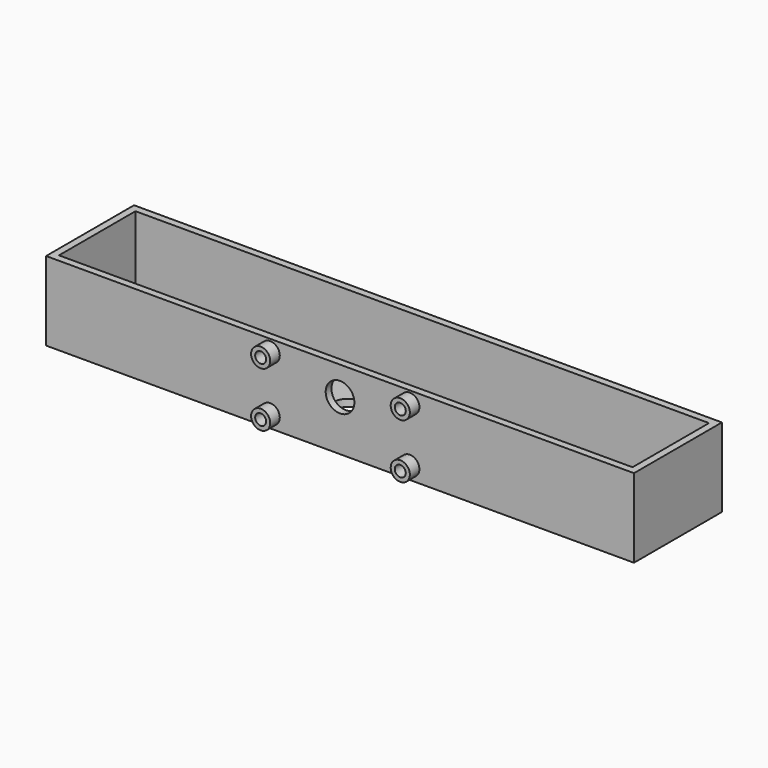
from build123d import *

# Parameters (mm, degrees)
SKETCH002_R      = 6
SKETCH002_R_2    = 2.3
EXTRUDE002_DEPTH = 3
SKETCH001_W      = 246
SKETCH001_H      = 46
SKETCH001_W_2    = 240
SKETCH001_H_2    = 40
EXTRUDE001_DEPTH = 30
SKETCH003_R      = 4
SKETCH003_R_2    = 2.3
EXTRUDE003_DEPTH = 5
SKETCH_W         = 246
SKETCH_H         = 46
SKETCH_R         = 3.5
SKETCH_R_2       = 6.1
EXTRUDE_DEPTH    = 3


with BuildPart() as extrude002:
    # Sketch002 (on Face3 of Extrude001) → Extrude002 (new body)
    with BuildSketch(Plane.XZ):
        with Locations((123, 21)):
            Circle(SKETCH002_R)
        with Locations((93.79, 28.16)):
            Circle(SKETCH002_R_2)
        with Locations((93.79, 5.3)):
            Circle(SKETCH002_R_2)
        with Locations((152.21, 5.3)):
            Circle(SKETCH002_R_2)
        with Locations((152.21, 28.16)):
            Circle(SKETCH002_R_2)
    extrude(amount=-EXTRUDE002_DEPTH)


with BuildPart() as cut:
    # Sketch001 (on Face21 of Extrude) → Extrude001 (new body)
    with BuildSketch(Plane.XY.offset(3)):
        with Locations((123, 23)):
            Rectangle(SKETCH001_W, SKETCH001_H)
        with Locations((123, 23)):
            Rectangle(SKETCH001_W_2, SKETCH001_H_2, mode=Mode.SUBTRACT)
    extrude(amount=EXTRUDE001_DEPTH)

    # Cut: cut Extrude002
    add(extrude002.part, mode=Mode.SUBTRACT)


with BuildPart() as extrude003:
    # Sketch003 (on Face6 of Cut) → Extrude003 (new body)
    with BuildSketch(Plane.XZ):
        with Locations((93.79, 28.16)):
            Circle(SKETCH003_R)
        with Locations((93.79, 28.16)):
            Circle(SKETCH003_R_2, mode=Mode.SUBTRACT)
        with Locations((152.21, 28.16)):
            Circle(SKETCH003_R)
        with Locations((152.21, 28.16)):
            Circle(SKETCH003_R_2, mode=Mode.SUBTRACT)
        with Locations((152.21, 5.3)):
            Circle(SKETCH003_R)
        with Locations((152.21, 5.3)):
            Circle(SKETCH003_R_2, mode=Mode.SUBTRACT)
        with Locations((93.79, 5.3)):
            Circle(SKETCH003_R)
        with Locations((93.79, 5.3)):
            Circle(SKETCH003_R_2, mode=Mode.SUBTRACT)
    extrude(amount=EXTRUDE003_DEPTH)


with BuildPart() as fusion:
    # Sketch → Extrude (new body)
    with BuildSketch(Plane.XY):
        with Locations((123, 23)):
            Rectangle(SKETCH_W, SKETCH_H)
        with Locations((12, 23)):
            Circle(SKETCH_R, mode=Mode.SUBTRACT)
        with Locations((24, 23)):
            Circle(SKETCH_R, mode=Mode.SUBTRACT)
        with Locations((36, 23)):
            Circle(SKETCH_R, mode=Mode.SUBTRACT)
        with Locations((54, 23)):
            Circle(SKETCH_R_2, mode=Mode.SUBTRACT)
        with Locations((72, 23)):
            Circle(SKETCH_R_2, mode=Mode.SUBTRACT)
        with Locations((90, 23)):
            Circle(SKETCH_R_2, mode=Mode.SUBTRACT)
        with Locations((108, 23)):
            Circle(SKETCH_R_2, mode=Mode.SUBTRACT)
        with Locations((126, 23)):
            Circle(SKETCH_R_2, mode=Mode.SUBTRACT)
        with Locations((144, 23)):
            Circle(SKETCH_R_2, mode=Mode.SUBTRACT)
        with Locations((162, 23)):
            Circle(SKETCH_R_2, mode=Mode.SUBTRACT)
        with Locations((180, 23)):
            Circle(SKETCH_R_2, mode=Mode.SUBTRACT)
        with Locations((198, 23)):
            Circle(SKETCH_R, mode=Mode.SUBTRACT)
        with Locations((210, 23)):
            Circle(SKETCH_R, mode=Mode.SUBTRACT)
        with Locations((222, 23)):
            Circle(SKETCH_R, mode=Mode.SUBTRACT)
        with Locations((234, 23)):
            Circle(SKETCH_R, mode=Mode.SUBTRACT)
    extrude(amount=EXTRUDE_DEPTH)

    # Fusion: union Cut, Extrude003
    add(cut.part)
    add(extrude003.part)


solid = fusion.part
